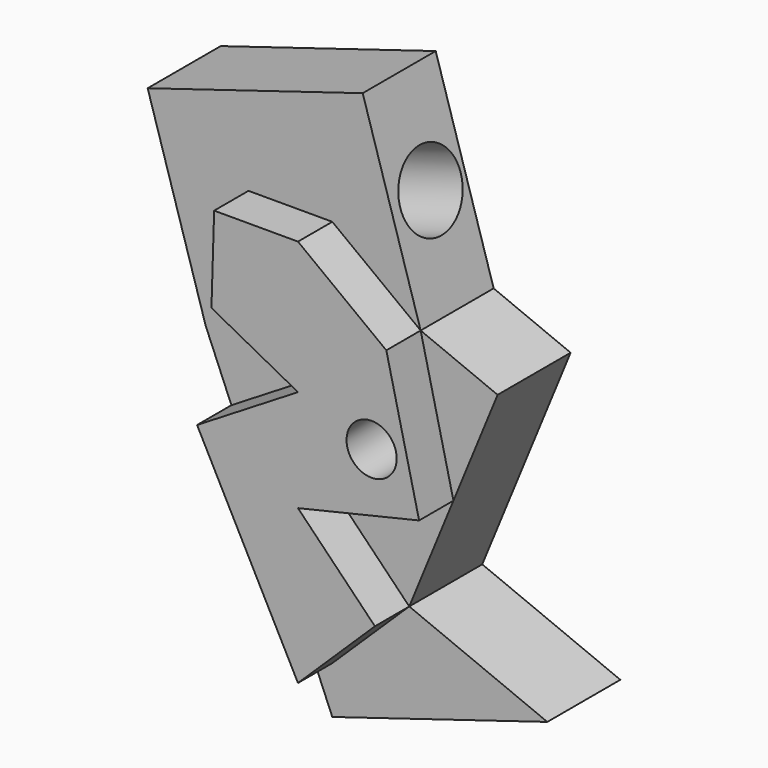
from build123d import *

# Parameters (mm, degrees)
F1_DEPTH  = 25.4
F2_DEPTH  = 23.1580417603
F3_DEPTH  = 55.316273123
F4_R      = 10.5299090295
F5_DEPTH  = 108.9027523994
F7_DEPTH  = 11.9440481067
F8_R      = 6.9812840575
F9_DEPTH  = 59.2665076256
F11_DEPTH = 9.5802750438


with BuildPart() as f1:
    # F0 (on Front) → F1 (new body)
    with BuildSketch(Plane.XZ):
        Polygon((24.5958286973, 18.2494423054), (-35.2649310012, 0), (0, -84.4565883958), (59.8607596985, -66.2071460904), (0, -41.6113173931), align=None)
    extrude(amount=F1_DEPTH)

    # F2 (add): a face of the model
    f2_faces = [f1.faces().sort_by_distance(p)[0] for p in [
        (12.2979143487, -12.7, -11.6809375438),
    ]]
    extrude(f2_faces, amount=F2_DEPTH)

    # F3 (add): a face of the model
    f3_faces = [f1.faces().sort_by_distance(p)[0] for p in [
        (-5.3345511519, -12.7, 9.1247211527),
    ]]
    extrude(f3_faces, amount=F3_DEPTH)

    # F4 (on face) → F5 (cut)
    with BuildSketch(Plane(origin=(27.5947180099, 0, 8.412659926), x_dir=(0, 1, 0), z_dir=(0.956536014, 0, 0.2916142209))):
        with Locations((-11.9604282081, 37.7803184092)):
            Circle(F4_R)
    extrude(amount=-F5_DEPTH, mode=Mode.SUBTRACT)

    # F6 (on face) → F7 (join)
    with BuildSketch(Plane.XZ.offset(25.4)):
        Polygon((0, 36.8930399418), (-23.3332291245, 36.8930399418), (-24.0859165788, 12.8071308136), (0, 0), (-28.0878045399, -17.1886233206), (0, -71.279310042), (21.4203697409, -50.4126047044), (0, -28.4238799673), (33.7182840896, -20.4822248551), (24.5958286973, 18.2494423054), align=None)
    extrude(amount=F7_DEPTH)

    # F8 (on face) → F9 (cut)
    with BuildSketch(Plane.XZ.offset(37.3440481067)):
        with Locations((20.4987134784, -7.3451003991)):
            Circle(F8_R)
    extrude(amount=-F9_DEPTH, mode=Mode.SUBTRACT)

    # F10 (on face) → F11 (join)
    with BuildSketch(Plane(origin=(0, 0, 0), x_dir=(-1, 0, 0), z_dir=(0, 1, 0))):
        Polygon((16.2364837848, 12.1487083648), (16.2364837848, 41.2922068478), (9.2287091538, 44.0222509205), (2.1720913557, 41.4210605836), (2.1720913557, 12.1487083648), align=None)
    extrude(amount=F11_DEPTH)


solid = f1.part
